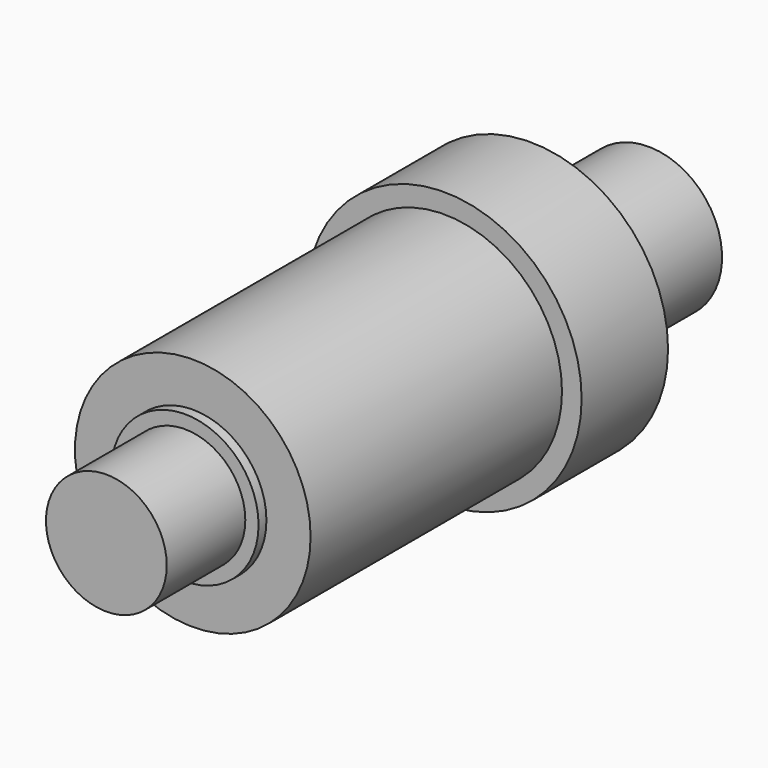
from build123d import *

# Parameters (mm, degrees)
F0_R      = 14
F1_DEPTH  = 11
F2_R      = 12
F3_DEPTH  = 32
F4_R      = 7.5
F4_R_2    = 4
F5_DEPTH  = 15
F6_R      = 7.5
F7_DEPTH  = 1
F8_R      = 6.15
F9_DEPTH  = 10
F10_R     = 1.5
F11_DEPTH = 25


with BuildPart() as f1:
    # F0 (on Front) → F1 (new body)
    with BuildSketch(Plane.XZ):
        Circle(F0_R)
    extrude(amount=F1_DEPTH)

    # F2 (on face) → F3 (join)
    with BuildSketch(Plane.XZ.offset(11)):
        Circle(F2_R)
    extrude(amount=F3_DEPTH)

    # F4 (on face) → F5 (join)
    with BuildSketch(Plane(origin=(0, 0, 0), x_dir=(-1, 0, 0), z_dir=(0, 1, 0))):
        Circle(F4_R)
        Circle(F4_R_2, mode=Mode.SUBTRACT)
    extrude(amount=F5_DEPTH)

    # F6 (on face) → F7 (join)
    with BuildSketch(Plane.XZ.offset(43)):
        Circle(F6_R)
    extrude(amount=F7_DEPTH)

    # F8 (on face) → F9 (join)
    with BuildSketch(Plane.XZ.offset(44)):
        Circle(F8_R)
    extrude(amount=F9_DEPTH)

    # F10 (on Right) → F11 (cut)
    with BuildSketch(Plane.YZ):
        with Locations((10, 0)):
            Circle(F10_R)
    extrude(amount=-F11_DEPTH, mode=Mode.SUBTRACT)


solid = f1.part
